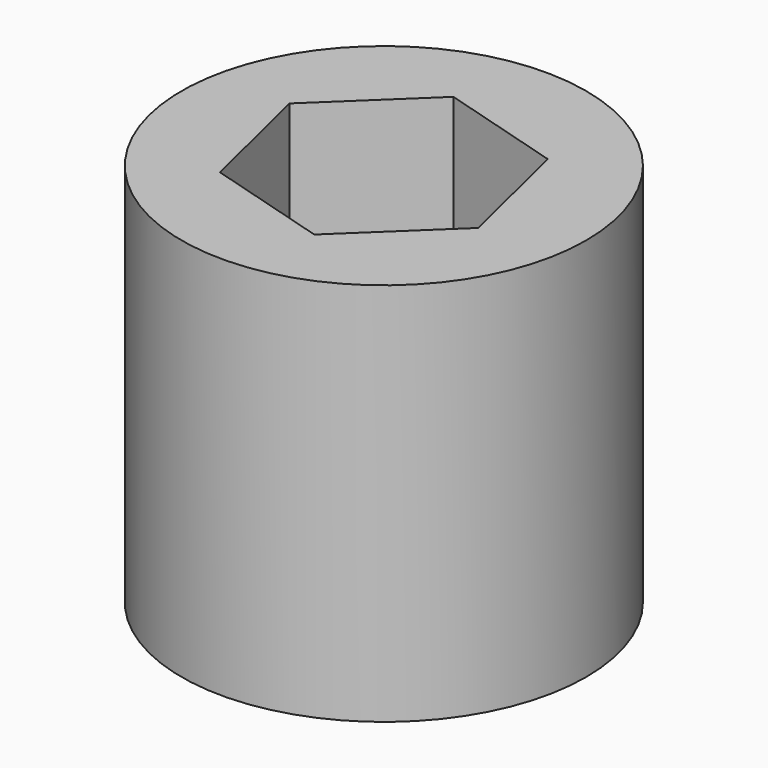
from build123d import *

# Parameters (mm, degrees)
F0_R     = 5
F0_R_2   = 2.5
F0_R_3   = 1
F1_DEPTH = 1.5
F2_DEPTH = 3
F3_R     = 5
F4_DEPTH = 5


with BuildPart() as f1:
    # F0 (on Top) → F1 (new body)
    with BuildSketch(Plane.XY):
        Circle(F0_R)
        Circle(F0_R_2, mode=Mode.SUBTRACT)
        Circle(F0_R_2)
        Circle(F0_R_3, mode=Mode.SUBTRACT)
    extrude(amount=F1_DEPTH)

    # F0 (on Top) → F2 (join)
    with BuildSketch(Plane.XY):
        Circle(F0_R)
        Circle(F0_R_2, mode=Mode.SUBTRACT)
    extrude(amount=-F2_DEPTH)

    # F3 (on face) → F4 (join)
    with BuildSketch(Plane.XY.offset(1.5)):
        Circle(F3_R)
        Polygon((-3.046816, 0.894564), (-0.748693, 3.085902), (2.298123, 2.191338), (3.046816, -0.894564), (0.748693, -3.085902), (-2.298123, -2.191338), align=None, mode=Mode.SUBTRACT)
    extrude(amount=F4_DEPTH)


solid = f1.part
